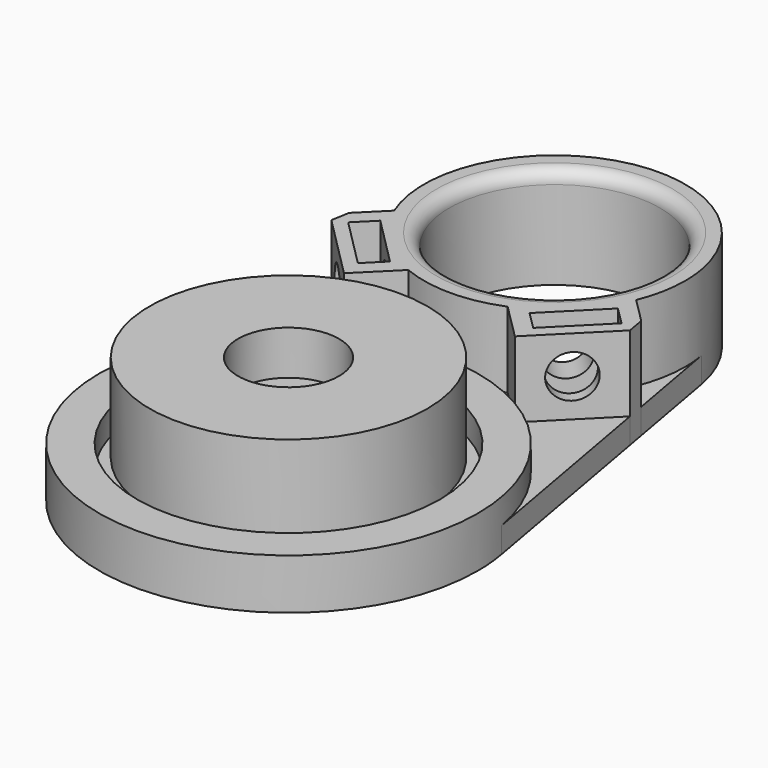
from build123d import *

# Parameters (mm, degrees)
F3_R         = 1.7
F4_DEPTH     = 6.5
F5_R         = 8.35
F5_R_2       = 1.7
F2_FACE1_R   = 15
F2_FACE1_R_2 = 1.7
F6_DEPTH     = 2
F7_DEPTH     = 8
F8_R         = 1.7
F9_DEPTH     = 6.4687966713
F10_R        = 1.7
F11_DEPTH    = 6.4687966703
F12_R        = 11
F12_R_2      = 4
F13_DEPTH    = 7
F14_R        = 1


with BuildPart() as f2:
    # F1 (on Front) → F2 (revolve)
    with BuildSketch(Plane.XZ):
        Polygon((0, 6.5), (0, 0), (15, 0), (15, 4), (12, 4), (12, 2), (11, 2), (5.5, 2), (5.5, 3), (4, 3), (4, 6.5), align=None)
    revolve(axis=Axis((0, 0, 3.25), (0, 0, 1)))

    # F3 (on face) → F4 (cut, through all)
    with BuildSketch(Plane.XY.offset(6.5)):
        Circle(F3_R)
    extrude(amount=-F4_DEPTH, mode=Mode.SUBTRACT)

    # F5 (on face) + F2_face1 (on face) → F6 (join, through all)
    with BuildSketch(Plane(origin=(0, 0, 0), x_dir=(1, 0, 0), z_dir=(0, 0, -1))):
        with BuildLine():
            ThreePointArc((14.7645887035, -2.6470588235), (0, -15), (-14.7645887035, -2.6470588235))
            Line((-14.7645887035, -2.6470588235), (-11.8277186488, -19.0281373429))
            Line((-11.8277186488, -19.0281373429), (-6.769480635, -13.9539071991))
            Line((-6.769480635, -13.9539071991), (-3.9365929167, -16.7778666846))
            ThreePointArc((-3.9365929167, -16.7778666846), (0, -16), (3.9365929167, -16.7778666846))
            Line((3.9365929167, -16.7778666846), (6.769480635, -13.9539071991))
            Line((6.769480635, -13.9539071991), (11.8277186488, -19.0281373429))
            Line((11.8277186488, -19.0281373429), (14.7645887035, -2.6470588235))
        make_face()
        with BuildLine():
            Line((11.5702645211, -20.4641478586), (11.8277186488, -19.0281373429))
            Line((11.8277186488, -19.0281373429), (6.769480635, -13.9539071991))
            Line((6.769480635, -13.9539071991), (3.9365929167, -16.7778666846))
            ThreePointArc((3.9365929167, -16.7778666846), (7.3300969712, -19.0430048314), (9.5845118876, -22.4436421212))
            Line((9.5845118876, -22.4436421212), (11.5702645211, -20.4641478586))
        make_face()
        Polygon((9.4102464779, -20.8523748379), (5.5273021855, -16.9571542252), (6.9437460446, -15.5451744825), (10.8266903371, -19.4403950952), align=None, mode=Mode.SUBTRACT)
        with BuildLine():
            Line((10.1875662054, -28.1764705882), (11.5702645211, -20.4641478586))
            Line((11.5702645211, -20.4641478586), (9.5845118876, -22.4436421212))
            ThreePointArc((9.5845118876, -22.4436421212), (10.1568252431, -24.359673147), (10.35, -26.35))
            ThreePointArc((10.35, -26.35), (10.3093115732, -27.2668396189), (10.1875662054, -28.1764705882))
        make_face()
        with BuildLine():
            ThreePointArc((-9.5845118876, -22.4436421212), (-10.2932064289, -25.2672251329), (-10.1875662054, -28.1764705882))
            ThreePointArc((-10.1875662054, -28.1764705882), (0, -36.7), (10.1875662054, -28.1764705882))
            ThreePointArc((10.1875662054, -28.1764705882), (10.3093115732, -27.2668396189), (10.35, -26.35))
            ThreePointArc((10.35, -26.35), (10.1568252431, -24.359673147), (9.5845118876, -22.4436421212))
            ThreePointArc((9.5845118876, -22.4436421212), (7.3300969712, -19.0430048314), (3.9365929167, -16.7778666846))
            ThreePointArc((3.9365929167, -16.7778666846), (0, -16), (-3.9365929167, -16.7778666846))
            ThreePointArc((-3.9365929167, -16.7778666846), (-7.3300969712, -19.0430048314), (-9.5845118876, -22.4436421212))
        make_face()
        with Locations((0, -26.35)):
            Circle(F5_R, mode=Mode.SUBTRACT)
        with BuildLine():
            Line((-6.769480635, -13.9539071991), (-11.8277186488, -19.0281373429))
            Line((-11.8277186488, -19.0281373429), (-11.5702645211, -20.4641478586))
            Line((-11.5702645211, -20.4641478586), (-9.5845118876, -22.4436421212))
            ThreePointArc((-9.5845118876, -22.4436421212), (-7.3300969712, -19.0430048314), (-3.9365929167, -16.7778666846))
            Line((-3.9365929167, -16.7778666846), (-6.769480635, -13.9539071991))
        make_face()
        Polygon((-5.5273021855, -16.9571542252), (-9.4102464779, -20.8523748379), (-10.8266903371, -19.4403950952), (-6.9437460446, -15.5451744825), align=None, mode=Mode.SUBTRACT)
        Polygon((-10.8266903371, -19.4403950952), (-9.4102464779, -20.8523748379), (-5.5273021855, -16.9571542252), (-6.9437460446, -15.5451744825), align=None)
        with BuildLine():
            Line((-9.5845118876, -22.4436421212), (-11.5702645211, -20.4641478586))
            Line((-11.5702645211, -20.4641478586), (-10.1875662054, -28.1764705882))
            ThreePointArc((-10.1875662054, -28.1764705882), (-10.2932064289, -25.2672251329), (-9.5845118876, -22.4436421212))
        make_face()
        with BuildLine():
            ThreePointArc((14.7645887035, -2.6470588235), (14.9410312655, -1.3287530709), (15, 0))
            ThreePointArc((15, 0), (-1.3287530709, 14.9410312655), (-14.7645887035, -2.6470588235))
            ThreePointArc((-14.7645887035, -2.6470588235), (0, -15), (14.7645887035, -2.6470588235))
        make_face()
        Circle(F5_R_2, mode=Mode.SUBTRACT)
        with BuildLine():
            Line((11.5702645211, -20.4641478586), (11.8277186488, -19.0281373429))
            Line((11.8277186488, -19.0281373429), (6.769480635, -13.9539071991))
            Line((6.769480635, -13.9539071991), (3.9365929167, -16.7778666846))
            ThreePointArc((3.9365929167, -16.7778666846), (7.3300969712, -19.0430048314), (9.5845118876, -22.4436421212))
            Line((9.5845118876, -22.4436421212), (11.5702645211, -20.4641478586))
        make_face()
        Polygon((9.4102464779, -20.8523748379), (5.5273021855, -16.9571542252), (6.9437460446, -15.5451744825), (10.8266903371, -19.4403950952), align=None, mode=Mode.SUBTRACT)
        Polygon((6.9437460446, -15.5451744825), (5.5273021855, -16.9571542252), (9.4102464779, -20.8523748379), (10.8266903371, -19.4403950952), align=None)
        with BuildLine():
            ThreePointArc((14.7645887035, -2.6470588235), (0, -15), (-14.7645887035, -2.6470588235))
            Line((-14.7645887035, -2.6470588235), (-11.8277186488, -19.0281373429))
            Line((-11.8277186488, -19.0281373429), (-6.769480635, -13.9539071991))
            Line((-6.769480635, -13.9539071991), (-3.9365929167, -16.7778666846))
            ThreePointArc((-3.9365929167, -16.7778666846), (0, -16), (3.9365929167, -16.7778666846))
            Line((3.9365929167, -16.7778666846), (6.769480635, -13.9539071991))
            Line((6.769480635, -13.9539071991), (11.8277186488, -19.0281373429))
            Line((11.8277186488, -19.0281373429), (14.7645887035, -2.6470588235))
        make_face()
    with BuildSketch(Plane(origin=(0, 0, 0), x_dir=(1, 0, 0), z_dir=(0, 0, -1))):
        Circle(F2_FACE1_R)
        Circle(F2_FACE1_R_2, mode=Mode.SUBTRACT)
    extrude(amount=-F6_DEPTH)

    # F5 (on face) → F7 (join)
    with BuildSketch(Plane(origin=(0, 0, 0), x_dir=(1, 0, 0), z_dir=(0, 0, -1))):
        with BuildLine():
            ThreePointArc((-9.5845118876, -22.4436421212), (-10.2932064289, -25.2672251329), (-10.1875662054, -28.1764705882))
            ThreePointArc((-10.1875662054, -28.1764705882), (0, -36.7), (10.1875662054, -28.1764705882))
            ThreePointArc((10.1875662054, -28.1764705882), (10.3093115732, -27.2668396189), (10.35, -26.35))
            ThreePointArc((10.35, -26.35), (10.1568252431, -24.359673147), (9.5845118876, -22.4436421212))
            ThreePointArc((9.5845118876, -22.4436421212), (7.3300969712, -19.0430048314), (3.9365929167, -16.7778666846))
            ThreePointArc((3.9365929167, -16.7778666846), (0, -16), (-3.9365929167, -16.7778666846))
            ThreePointArc((-3.9365929167, -16.7778666846), (-7.3300969712, -19.0430048314), (-9.5845118876, -22.4436421212))
        make_face()
        with Locations((0, -26.35)):
            Circle(F5_R, mode=Mode.SUBTRACT)
        with BuildLine():
            Line((-6.769480635, -13.9539071991), (-11.8277186488, -19.0281373429))
            Line((-11.8277186488, -19.0281373429), (-11.5702645211, -20.4641478586))
            Line((-11.5702645211, -20.4641478586), (-9.5845118876, -22.4436421212))
            ThreePointArc((-9.5845118876, -22.4436421212), (-7.3300969712, -19.0430048314), (-3.9365929167, -16.7778666846))
            Line((-3.9365929167, -16.7778666846), (-6.769480635, -13.9539071991))
        make_face()
        Polygon((-5.5273021855, -16.9571542252), (-9.4102464779, -20.8523748379), (-10.8266903371, -19.4403950952), (-6.9437460446, -15.5451744825), align=None, mode=Mode.SUBTRACT)
        with BuildLine():
            Line((11.5702645211, -20.4641478586), (11.8277186488, -19.0281373429))
            Line((11.8277186488, -19.0281373429), (6.769480635, -13.9539071991))
            Line((6.769480635, -13.9539071991), (3.9365929167, -16.7778666846))
            ThreePointArc((3.9365929167, -16.7778666846), (7.3300969712, -19.0430048314), (9.5845118876, -22.4436421212))
            Line((9.5845118876, -22.4436421212), (11.5702645211, -20.4641478586))
        make_face()
        Polygon((9.4102464779, -20.8523748379), (5.5273021855, -16.9571542252), (6.9437460446, -15.5451744825), (10.8266903371, -19.4403950952), align=None, mode=Mode.SUBTRACT)
    extrude(amount=-F7_DEPTH)

    # F8 (on face) → F9 (cut, up to face)
    with BuildSketch(Plane(origin=(3.5814942406, 3.5702066719, 0), x_dir=(0.7059898714, -0.7082219296, 0), z_dir=(-0.7082219296, -0.7059898714, 0))):
        with Locations((-18.2440207785, 5)):
            Circle(F8_R)
    extrude(amount=-F9_DEPTH, mode=Mode.SUBTRACT)

    # F10 (on face) → F11 (cut, up to face)
    with BuildSketch(Plane(origin=(-3.5814942406, 3.5702066719, 0), x_dir=(0.7059898714, 0.7082219296, 0), z_dir=(0.7082219296, -0.7059898714, 0))):
        with Locations((18.2440207785, 5)):
            Circle(F10_R)
    extrude(amount=-F11_DEPTH, mode=Mode.SUBTRACT)

    # F14
    f14_edges = [f2.edges().sort_by_distance(p)[0] for p in [
        (-8.35, 26.35, 8),
    ]]
    fillet(f14_edges, radius=F14_R)


with BuildPart() as f13:
    # F12 (on face) → F13 (new body)
    with BuildSketch(Plane.XY.offset(3)):
        Circle(F12_R)
        Circle(F12_R_2, mode=Mode.SUBTRACT)
    extrude(amount=F13_DEPTH)


solid = Compound([f2.part, f13.part])
